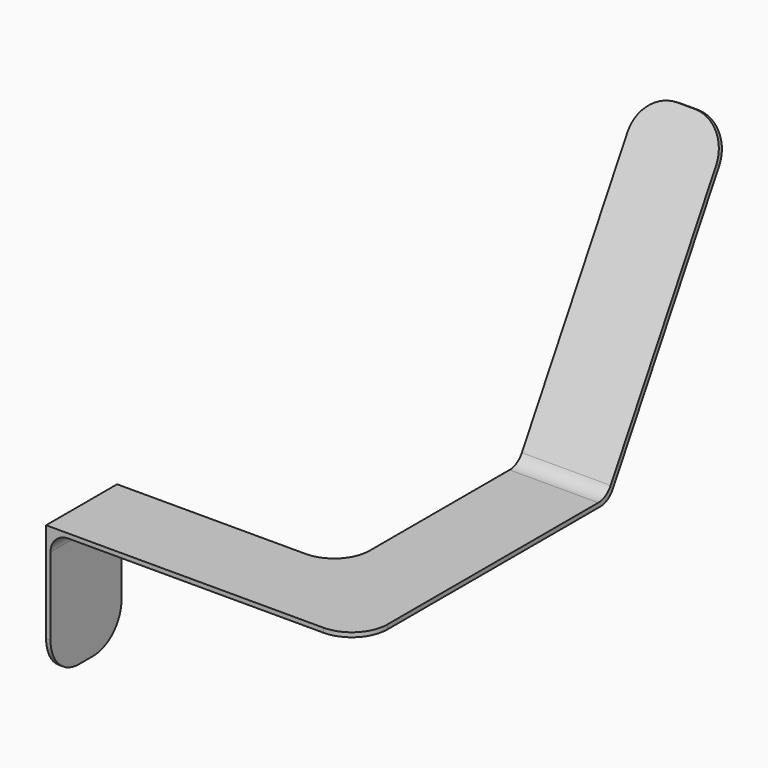
from build123d import *

# Parameters (mm, degrees)
F4_W = 5
F4_H = 100
F6_R = 20
F7_R = 40


with BuildPart() as f5:
    # F5: sweep along a path in F0, F2
    with BuildLine(Plane.XZ) as f5_path:
        Line((0, -150), (0, 0))
        Line((0, 0), (300, 0))
    with BuildLine(Plane.YZ.offset(300)) as f5_path_2:
        Line((0, 0), (300, 0))
        Line((300, 0), (475, 303.1088913246))
    # F4 (on plane+point) → F5 (sweep)
    with BuildSketch(Plane.XY.offset(-150)):
        Rectangle(F4_W, F4_H)
    sweep(path=f5_path.line + f5_path_2.line, transition=Transition.RIGHT)

    # F6
    f6_edges = [f5.edges().sort_by_distance(p)[0] for p in [
        (2.5, 0, -2.5),
        (300, 298.556624, 2.5),
        (300, 301.443376, -2.5),
    ]]
    fillet(f6_edges, radius=F6_R)

    # F7
    f7_edges = [f5.edges().sort_by_distance(p)[0] for p in [
        (350, -50, 0),
        (250, 50, 0),
        (350, 475, 303.108891),
        (250, 475, 303.108891),
        (0, -50, -150),
        (0, 50, -150),
    ]]
    fillet(f7_edges, radius=F7_R)


solid = f5.part
